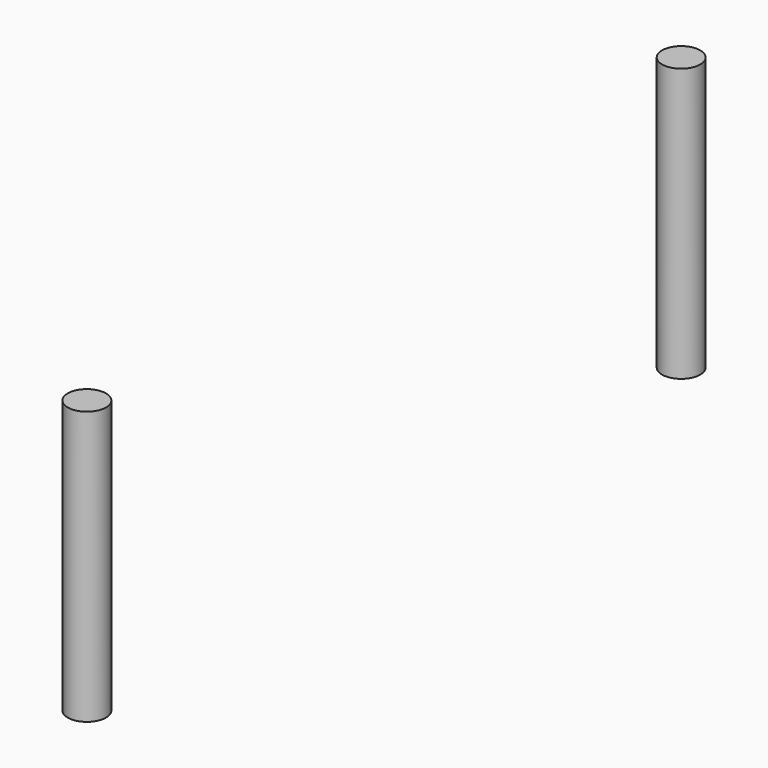
from build123d import *

# Parameters (mm, degrees)
CYLINDER041_R     = 0.7
CYLINDER041_DEPTH = 10
CYLINDER040_R     = 0.7
CYLINDER040_DEPTH = 10


with BuildPart() as taladro014:
    # Cylinder041 → Cylinder041 (new body)
    with BuildSketch(Plane(origin=(0, 8.2, 14), x_dir=(1, 0, 0), z_dir=(0, 0, 1))):
        Circle(CYLINDER041_R)
    extrude(amount=CYLINDER041_DEPTH)


with BuildPart() as taladros_c:
    # Cylinder040 → Cylinder040 (new body)
    with BuildSketch(Plane(origin=(0, -19, 14), x_dir=(1, 0, 0), z_dir=(0, 0, 1))):
        Circle(CYLINDER040_R)
    extrude(amount=CYLINDER040_DEPTH)

    # Fusion019: union Taladro014
    add(taladro014.part)


solid = taladros_c.part
